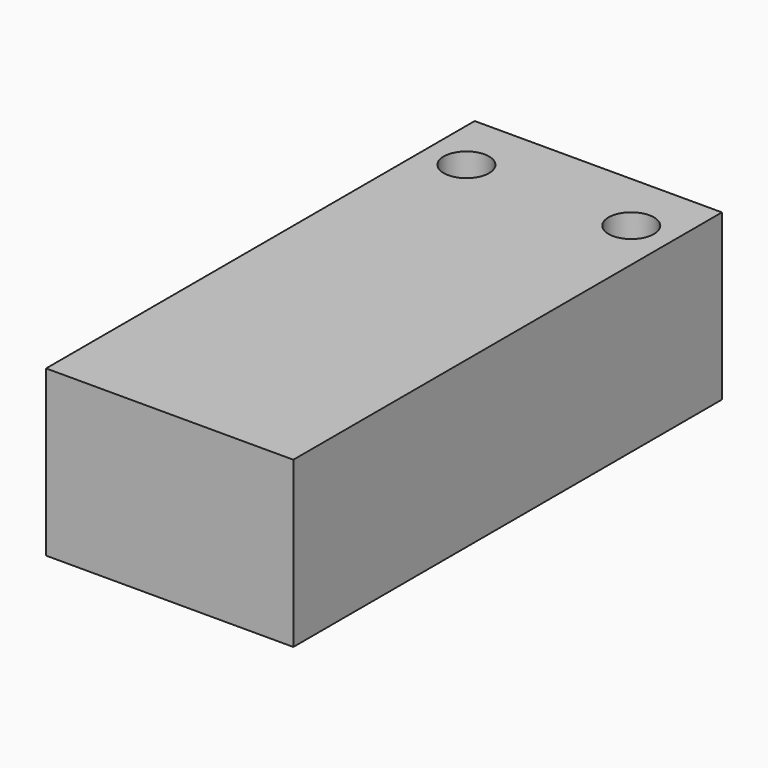
from build123d import *

# Parameters (mm, degrees)
F0_W     = 30
F0_H     = 65
F1_DEPTH = 20
F2_D     = 5.5


with BuildPart() as f1:
    # F0 (on Top) → F1 (new body)
    with BuildSketch(Plane.XY):
        Rectangle(F0_W, F0_H)
    extrude(amount=F1_DEPTH)

    # F2 (through all)
    with Locations(Plane(origin=(0, 0, 0), x_dir=(1, 0, 0), z_dir=(0, 0, -1))):
        with Locations((-10, -25), (10, -25)):
            Hole(F2_D / 2)


solid = f1.part
